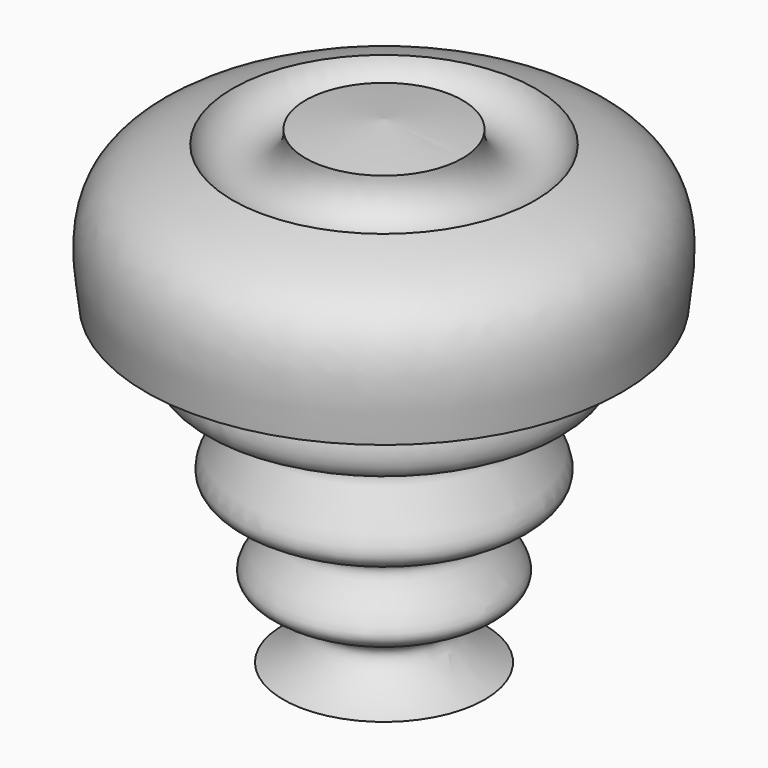
from build123d import *

# Parameters (mm, degrees)
F2_R     = 6.2145907432
F4_R     = 4
F5_DEPTH = 25


with BuildPart() as f1:
    # F0 (on Front) → F1 (revolve)
    with BuildSketch(Plane.XZ):
        with BuildLine():
            Line((0, 80), (0, 0))
            Line((0, 0), (16.8581027538, 0))
            add(Edge.make_bspline(
                [(29.3600410223, 52.726753056), (30.5613288421, 48.7466978082), (32.9625199916, 40.7911743452), (14.5213605876, 40.7817683237), (31.2666955075, 25.5101084872), (8.6367268511, 23.4106151539), (25.7273714968, 11.5732360427), (2.9359401971, 8.1263623249), (15.7852800949, 0.3653584132), (16.8581027538, 0)],
                knots=[0, 0, 0, 0, 0.1368000216, 0.2734423806, 0.4202983932, 0.5657718522, 0.6984301663, 0.8444059008, 0.9780944733, 0.9780944733, 0.9780944733, 0.9780944733], degree=3))
            Line((29.3600410223, 52.726753056), (39.8208498955, 52.726753056))
            add(Edge.make_bspline(
                [(0, 80), (16.0616589799, 78.2921005405), (42.86456245, 75.4420422491), (40.6916450122, 59.2255148643), (39.8208498955, 52.726753056)],
                knots=[0, 0, 0, 0, 0.5992507117, 1, 1, 1, 1], degree=3))
        make_face()
    revolve(axis=Axis((0, 0, 40), (0, 0, 1)))

    # F2 (on Front) → F3 (revolve, cut)
    with BuildSketch(Plane.XZ):
        with Locations((19.3250942975, 77.9111683369)):
            Circle(F2_R)
    revolve(axis=Axis((0, 0, 40), (0, 0, 1)), mode=Mode.SUBTRACT)

    # F4 (on face) → F5 (cut)
    with BuildSketch(Plane(origin=(0, 0, 9.3e-09), x_dir=(1, 0, 0), z_dir=(0, 0, -1))):
        Circle(F4_R)
    extrude(amount=-F5_DEPTH, mode=Mode.SUBTRACT)


solid = f1.part
